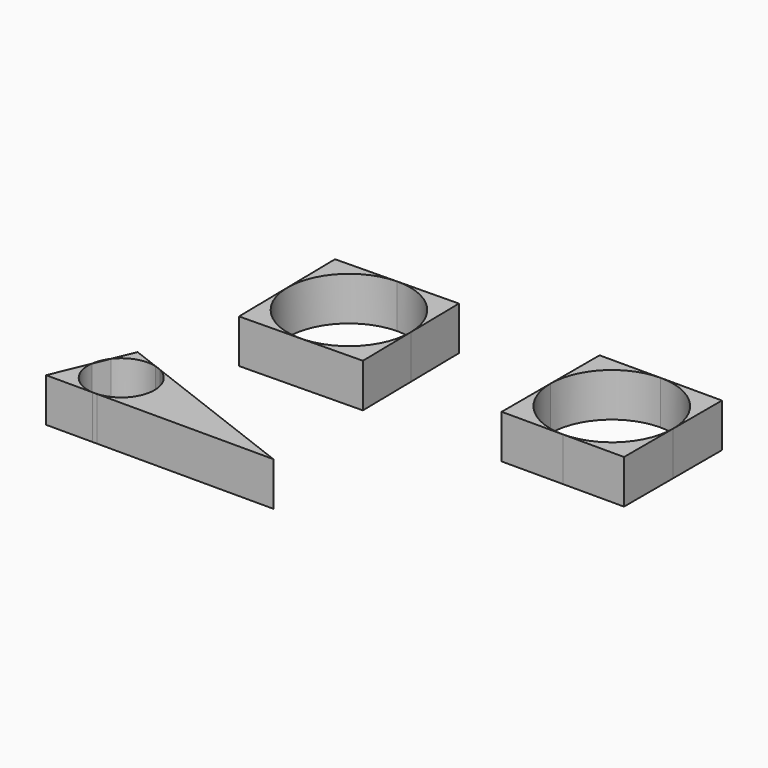
from build123d import *

# Parameters (mm, degrees)
F1_DEPTH = 25
F3_DEPTH = 25
F5_DEPTH = 25


with BuildPart() as f1:
    # F0 (on Top) → F1 (new body)
    with BuildSketch(Plane.XY):
        with BuildLine():
            ThreePointArc((-201.2817312899, 40.1420777701), (-201.2786041813, 39.8719712405), (-201.2775617911, 39.6018486209))
            ThreePointArc((-201.2775617911, 39.6018486209), (-260.8345340642, 14.6628207173), (-236.8178539498, 74.5976781494))
            Line((-236.8178539498, 74.5976781494), (-271.8219615544, 74.057256712))
            Line((-271.8219615544, 74.057256712), (-270.7413742874, 4.0655977007))
            Line((-270.7413742874, 4.0655977007), (-200.7413742874, 5.1379727538))
            Line((-200.7413742874, 5.1379727538), (-201.2817312899, 40.1420777701))
        make_face()
    extrude(amount=F1_DEPTH)


with BuildPart() as f1b:
    # F0 (on Top) → F1, piece 2 (new body)
    with BuildSketch(Plane.XY):
        with BuildLine():
            ThreePointArc((-236.8178539498, 74.5976781494), (-211.9137950463, 64.7296593097), (-201.2817312899, 40.1420777701))
            Line((-201.2817312899, 40.1420777701), (-201.8219615544, 75.1379727538))
            Line((-201.8219615544, 75.1379727538), (-236.8178539498, 74.5976781494))
        make_face()
    extrude(amount=F1_DEPTH)


with BuildPart() as f3:
    # F2 (on Top) → F3 (new body)
    with BuildSketch(Plane.XY):
        with BuildLine():
            Line((-86.4887648821, 75.2963028755), (-121.4887648821, 75.2963028755))
            Line((-121.4887648821, 75.2963028755), (-121.4887648821, 40.2963028755))
            ThreePointArc((-121.4887648821, 40.2963028755), (-111.2375022236, 65.045040217), (-86.4887648821, 75.2963028755))
        make_face()
    extrude(amount=F3_DEPTH)


with BuildPart() as f3b:
    # F2 (on Top) → F3, piece 2 (new body)
    with BuildSketch(Plane.XY):
        with BuildLine():
            Line((-51.4887648821, 75.2963028755), (-86.4887648821, 75.2963028755))
            ThreePointArc((-86.4887648821, 75.2963028755), (-61.7400275406, 65.045040217), (-51.4887648821, 40.2963028755))
            Line((-51.4887648821, 40.2963028755), (-51.4887648821, 75.2963028755))
        make_face()
    extrude(amount=F3_DEPTH)


with BuildPart() as f3c:
    # F2 (on Top) → F3, piece 3 (new body)
    with BuildSketch(Plane.XY):
        with BuildLine():
            ThreePointArc((-51.4887648821, 40.2963028755), (-61.7400275406, 15.547565534), (-86.4887648821, 5.2963028755))
            Line((-86.4887648821, 5.2963028755), (-51.4887648821, 5.2963028755))
            Line((-51.4887648821, 5.2963028755), (-51.4887648821, 40.2963028755))
        make_face()
    extrude(amount=F3_DEPTH)


with BuildPart() as f3d:
    # F2 (on Top) → F3, piece 4 (new body)
    with BuildSketch(Plane.XY):
        with BuildLine():
            ThreePointArc((-86.4887648821, 5.2963028755), (-111.2375022236, 15.547565534), (-121.4887648821, 40.2963028755))
            Line((-121.4887648821, 40.2963028755), (-121.4887648821, 5.2963028755))
            Line((-121.4887648821, 5.2963028755), (-86.4887648821, 5.2963028755))
        make_face()
    extrude(amount=F3_DEPTH)


with BuildPart() as f5:
    # F4 (on Top) → F5 (new body)
    with BuildSketch(Plane.XY):
        with BuildLine():
            Line((-293.5276525094, -72.6722484934), (-302.5128269196, -94.1743254662))
            Line((-302.5128269196, -94.1743254662), (-276.0794770681, -94.1743254662))
            ThreePointArc((-276.0794770681, -94.1743254662), (-289.4493559169, -87.1931822681), (-293.5276525094, -72.6722484934))
        make_face()
    extrude(amount=F5_DEPTH)


with BuildPart() as f5b:
    # F4 (on Top) → F5, piece 2 (new body)
    with BuildSketch(Plane.XY):
        with BuildLine():
            Line((-273.2939720154, -94.1743254662), (-276.0794770681, -94.1743254662))
            ThreePointArc((-276.0794770681, -94.1743254662), (-274.6867245417, -94.2254093082), (-273.2939720154, -94.1743254662))
        make_face()
    extrude(amount=F5_DEPTH)


with BuildPart() as f5c:
    # F4 (on Top) → F5, piece 3 (new body)
    with BuildSketch(Plane.XY):
        with BuildLine():
            ThreePointArc((-266.1187806811, -58.2423663519), (-267.8735833865, -57.464989194), (-269.6978227858, -56.8685008081))
            Line((-269.6978227858, -56.8685008081), (-266.1187806811, -58.2423663519))
        make_face()
    extrude(amount=F5_DEPTH)


with BuildPart() as f5d:
    # F4 (on Top) → F5, piece 4 (new body)
    with BuildSketch(Plane.XY):
        with BuildLine():
            Line((-284.5424780992, -51.1701715207), (-289.7342068762, -63.594298943))
            ThreePointArc((-289.7342068762, -63.594298943), (-280.7367535459, -57.1905841183), (-269.6978227858, -56.8685008081))
            Line((-269.6978227858, -56.8685008081), (-284.5424780992, -51.1701715207))
        make_face()
    extrude(amount=F5_DEPTH)


with BuildPart() as f5e:
    # F4 (on Top) → F5, piece 5 (new body)
    with BuildSketch(Plane.XY):
        with BuildLine():
            ThreePointArc((-289.7342068762, -63.594298943), (-292.2283430592, -67.8836297746), (-293.5276525094, -72.6722484934))
            Line((-293.5276525094, -72.6722484934), (-289.7342068762, -63.594298943))
        make_face()
    extrude(amount=F5_DEPTH)


with BuildPart() as f5f:
    # F4 (on Top) → F5, piece 6 (new body)
    with BuildSketch(Plane.XY):
        with BuildLine():
            ThreePointArc((-255.6751439473, -75.2138287137), (-260.7597969624, -88.1552693174), (-273.2939720154, -94.1743254662))
            Line((-273.2939720154, -94.1743254662), (-172.5128269196, -94.1743254662))
            Line((-172.5128269196, -94.1743254662), (-266.1187806811, -58.2423663519))
            ThreePointArc((-266.1187806811, -58.2423663519), (-258.4952089868, -65.2501436158), (-255.6751439473, -75.2138287137))
        make_face()
    extrude(amount=F5_DEPTH)


solid = Compound([f1.part, f1b.part, f3.part, f3b.part, f3c.part, f3d.part, f5.part, f5b.part, f5c.part, f5d.part, f5e.part, f5f.part])
